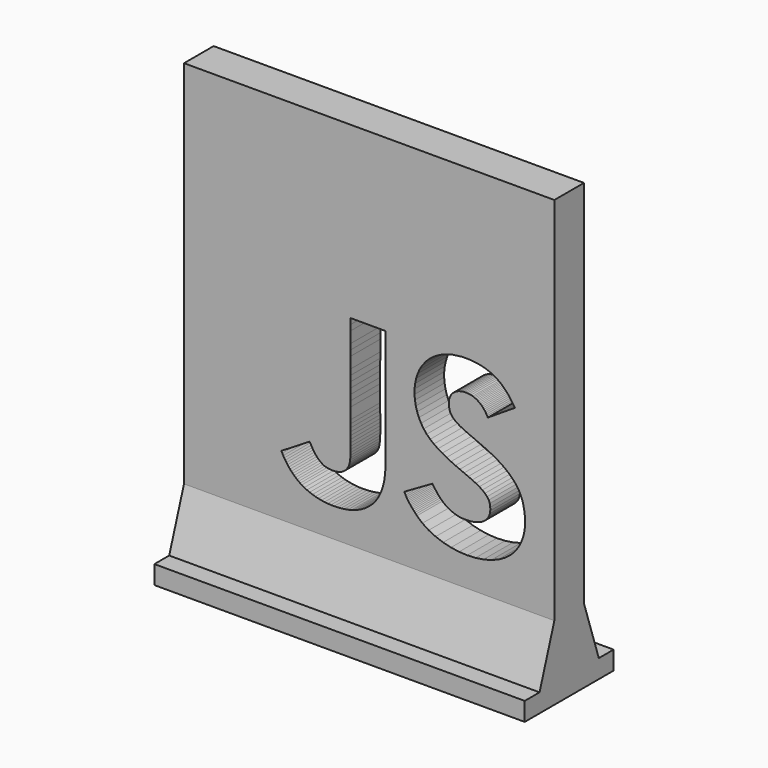
from build123d import *

# Parameters (mm, degrees)
F1_DEPTH = 5
F3_DEPTH = 49.999602


with BuildPart() as f1:
    # F0 (on Front) → F1 (new body)
    with BuildSketch(Plane.XZ):
        Polygon((-21.874825, 25), (-24.9998, 25), (-24.9998, 21.875), (-24.9998, 18.75), (-24.9998, 15.625), (-24.9998, 12.499999), (-24.9998, 9.374999), (-24.9998, 6.25), (-24.9998, 3.125), (-24.9998, 0), (-24.9998, -3.125001), (-24.9998, -6.250001), (-24.9998, -9.375), (-24.9998, -12.5), (-24.9998, -15.625), (-24.999801, -18.75), (-24.999801, -21.875001), (-24.999801, -25.000001), (-21.874826, -25.000001), (-18.749851, -25.000001), (-15.624875, -25.000001), (-12.4999, -25.000001), (-9.374925, -25.000001), (-6.24995, -25.000001), (-3.124975, -25.000001), (0, -25.000001), (3.124975, -25.000001), (6.24995, -25.000001), (9.374925, -25.000001), (12.499901, -25.000001), (15.624876, -25.000001), (18.749851, -25.000001), (21.874826, -25.000001), (24.999801, -25.000001), (24.999801, -21.875001), (24.999801, -18.75), (24.999801, -15.625), (24.999801, -12.5), (24.999801, -9.375), (24.999801, -6.250001), (24.999801, -3.125001), (24.999801, 0), (24.999801, 3.125), (24.999801, 6.25), (24.999801, 9.374999), (24.999801, 12.499999), (24.999801, 15.625), (24.999801, 18.75), (24.999801, 21.875), (24.999801, 25), (21.874826, 25), (18.749851, 25), (15.624876, 25), (12.499901, 25), (9.374926, 25), (6.249951, 25), (3.124976, 25), (1e-06, 25), (-3.124974, 25), (-6.24995, 25), (-9.374924, 25), (-12.499899, 25), (-15.624875, 25), (-18.74985, 25), align=None)
        Polygon((1.889283, 2.020009), (2.181575, 2.020009), (2.181834, 1.213692), (2.182541, 0.40769), (2.183592, -0.398019), (2.184883, -1.203458), (2.186309, -2.008649), (2.187767, -2.813614), (2.189153, -3.618375), (2.190362, -4.422955), (2.19129, -5.227376), (2.191833, -6.03166), (2.191887, -6.83583), (2.191348, -7.639907), (2.190112, -8.443914), (2.188073, -9.247873), (2.18513, -10.051806), (2.181176, -10.855735), (2.185169, -11.345514), (2.192077, -11.829149), (2.199685, -12.306406), (2.205778, -12.777049), (2.20814, -13.240841), (2.204556, -13.697548), (2.192812, -14.146933), (2.170692, -14.588761), (2.135981, -15.022796), (2.086465, -15.448801), (2.019928, -15.866542), (1.934154, -16.275783), (1.82693, -16.676287), (1.69604, -17.067819), (1.539268, -17.450144), (1.3544, -17.823025), (1.208559, -18.097766), (1.047665, -18.360476), (0.872371, -18.611161), (0.683331, -18.84983), (0.4812, -19.076487), (0.266631, -19.291142), (0.040279, -19.4938), (-0.197203, -19.684469), (-0.445159, -19.863156), (-0.702937, -20.029867), (-0.969882, -20.184611), (-1.245339, -20.327393), (-1.528655, -20.458221), (-1.819176, -20.577101), (-2.116247, -20.684042), (-2.419215, -20.77905), (-2.88751, -20.876347), (-3.352493, -20.952715), (-3.813428, -21.00839), (-4.269577, -21.043609), (-4.720203, -21.058608), (-5.164568, -21.053623), (-5.601937, -21.02889), (-6.03157, -20.984647), (-6.452731, -20.921129), (-6.864684, -20.838572), (-7.26669, -20.737214), (-7.658013, -20.61729), (-8.037915, -20.479037), (-8.40566, -20.322692), (-8.760509, -20.14849), (-9.101726, -19.956668), (-9.322345, -19.814901), (-9.536778, -19.664212), (-9.744968, -19.504929), (-9.946863, -19.337378), (-10.142406, -19.161886), (-10.331542, -18.978781), (-10.514217, -18.78839), (-10.690375, -18.591039), (-10.859962, -18.387055), (-11.022922, -18.176767), (-11.1792, -17.960499), (-11.328743, -17.738582), (-11.471493, -17.511339), (-11.607398, -17.2791), (-11.7364, -17.04219), (-11.858446, -16.800938), (-11.620798, -16.655403), (-11.38315, -16.509868), (-11.145502, -16.364334), (-10.907853, -16.218799), (-10.670205, -16.073265), (-10.432557, -15.92773), (-10.194908, -15.782195), (-9.95726, -15.636661), (-9.719612, -15.491126), (-9.481963, -15.345591), (-9.244315, -15.200056), (-9.006666, -15.054522), (-8.769018, -14.908987), (-8.53137, -14.763453), (-8.293722, -14.617918), (-8.056073, -14.472383), (-8.049014, -14.476928), (-8.040449, -14.48521), (-8.030427, -14.497062), (-8.018997, -14.512317), (-8.006208, -14.530809), (-7.992106, -14.552371), (-7.976743, -14.576836), (-7.960166, -14.604038), (-7.942423, -14.633809), (-7.923563, -14.665983), (-7.903635, -14.700393), (-7.882686, -14.736873), (-7.860767, -14.775255), (-7.837925, -14.815373), (-7.814209, -14.85706), (-7.789668, -14.90015), (-7.699489, -15.049706), (-7.610176, -15.19379), (-7.521037, -15.332502), (-7.431385, -15.465938), (-7.340531, -15.594198), (-7.247784, -15.717378), (-7.152455, -15.835579), (-7.053857, -15.948898), (-6.951298, -16.057434), (-6.844091, -16.161284), (-6.731545, -16.260547), (-6.612972, -16.355321), (-6.487682, -16.445706), (-6.354986, -16.531798), (-6.214196, -16.613696), (-6.064621, -16.691499), (-5.902313, -16.741641), (-5.720398, -16.787258), (-5.521882, -16.826156), (-5.309776, -16.856141), (-5.087087, -16.87502), (-4.856823, -16.880597), (-4.621993, -16.87068), (-4.385606, -16.843073), (-4.15067, -16.795584), (-3.920193, -16.726017), (-3.697185, -16.632179), (-3.484652, -16.511876), (-3.285604, -16.362914), (-3.10305, -16.183099), (-2.939997, -15.970236), (-2.799453, -15.722133), (-2.727336, -15.567847), (-2.667136, -15.377328), (-2.617849, -15.152655), (-2.578474, -14.895911), (-2.548008, -14.609176), (-2.52545, -14.294531), (-2.509797, -13.954058), (-2.500046, -13.589838), (-2.495196, -13.203951), (-2.494245, -12.798479), (-2.496189, -12.375502), (-2.500027, -11.937103), (-2.504757, -11.485361), (-2.509377, -11.022359), (-2.512883, -10.550176), (-2.514275, -10.070895), (-2.513077, -9.315214), (-2.511879, -8.559533), (-2.51068, -7.803851), (-2.509482, -7.048169), (-2.508284, -6.292488), (-2.507086, -5.536806), (-2.505887, -4.781125), (-2.504689, -4.025444), (-2.503491, -3.269762), (-2.502293, -2.51408), (-2.501094, -1.758399), (-2.499896, -1.002718), (-2.498698, -0.247036), (-2.4975, 0.508646), (-2.496302, 1.264327), (-2.495103, 2.020009), (-2.202811, 2.020009), (-1.910519, 2.020009), (-1.618226, 2.020009), (-1.325934, 2.020009), (-1.033641, 2.020009), (-0.741349, 2.020009), (-0.449057, 2.020009), (-0.156764, 2.020009), (0.135528, 2.020009), (0.427821, 2.020009), (0.720113, 2.020009), (1.012406, 2.020009), (1.304698, 2.020009), (1.596991, 2.020009), align=None, mode=Mode.SUBTRACT)
        Polygon((20.825609, -12.65138), (20.907859, -13.074851), (20.964867, -13.434752), (21.00507, -13.777911), (21.030168, -14.103753), (21.041863, -14.411703), (21.041857, -14.701186), (21.031851, -14.971626), (21.013546, -15.222449), (20.988643, -15.45308), (20.958845, -15.662943), (20.925852, -15.851463), (20.891366, -16.018065), (20.857088, -16.162174), (20.82472, -16.283215), (20.795963, -16.380612), (20.772518, -16.453791), (20.756087, -16.502177), (20.367272, -17.482109), (19.822998, -18.338182), (19.142134, -19.07263), (18.343545, -19.687688), (17.446098, -20.185591), (16.468659, -20.568575), (15.430094, -20.838874), (14.349269, -20.998723), (13.245051, -21.050357), (12.136305, -20.996011), (11.041898, -20.83792), (9.980697, -20.57832), (8.971566, -20.219444), (8.033374, -19.763529), (7.184985, -19.212808), (6.445266, -18.569518), (6.305061, -18.411988), (6.171165, -18.262733), (6.043193, -18.120346), (5.920761, -17.983423), (5.803485, -17.850557), (5.69098, -17.720345), (5.582862, -17.59138), (5.478746, -17.462257), (5.378248, -17.331571), (5.280984, -17.197915), (5.18657, -17.059886), (5.09462, -16.916078), (5.004751, -16.765085), (4.916578, -16.605502), (4.829717, -16.435923), (4.743784, -16.254944), (5.083116, -16.059791), (5.382891, -15.887378), (5.648671, -15.734495), (5.886018, -15.597934), (6.100496, -15.474486), (6.297668, -15.360942), (6.483096, -15.254092), (6.662344, -15.150727), (6.840974, -15.047639), (7.024549, -14.941617), (7.218632, -14.829454), (7.428785, -14.707939), (7.660573, -14.573864), (7.919556, -14.42402), (8.211299, -14.255197), (8.541365, -14.064186), (8.731415, -14.349178), (8.920889, -14.617962), (9.110999, -14.870825), (9.302956, -15.108054), (9.497971, -15.329935), (9.697257, -15.536755), (9.902025, -15.728802), (10.113488, -15.90636), (10.332855, -16.069717), (10.56134, -16.219161), (10.800153, -16.354977), (11.050507, -16.477452), (11.313614, -16.586873), (11.590684, -16.683526), (11.882929, -16.767699), (12.191563, -16.839677), (12.621495, -16.879574), (13.047593, -16.893553), (13.465693, -16.880766), (13.871633, -16.840365), (14.261248, -16.771501), (14.630377, -16.673326), (14.974858, -16.544992), (15.290526, -16.385651), (15.57322, -16.194453), (15.818776, -15.970551), (16.023033, -15.713096), (16.181826, -15.421241), (16.290993, -15.094135), (16.346372, -14.730932), (16.3438, -14.330783), (16.279114, -13.892839), (16.137891, -13.536332), (15.918731, -13.210527), (15.628905, -12.910807), (15.275693, -12.632555), (14.866366, -12.371152), (14.408202, -12.121982), (13.908476, -11.880428), (13.374463, -11.641871), (12.813438, -11.401695), (12.232677, -11.155282), (11.639455, -10.898015), (11.041047, -10.625276), (10.444729, -10.332448), (9.857777, -10.014913), (9.287465, -9.668056), (8.741069, -9.287256), (8.227089, -8.893323), (7.766018, -8.441565), (7.359081, -7.938988), (7.007504, -7.392592), (6.712513, -6.809382), (6.475333, -6.196359), (6.29719, -5.560526), (6.17931, -4.908887), (6.12292, -4.248443), (6.129243, -3.586198), (6.199507, -2.929154), (6.334937, -2.284314), (6.536758, -1.658681), (6.806196, -1.059258), (7.144478, -0.493046), (7.552828, 0.03295), (7.707135, 0.216209), (7.873763, 0.393359), (8.051996, 0.564206), (8.241116, 0.728558), (8.440404, 0.886221), (8.649142, 1.037003), (8.866614, 1.18071), (9.0921, 1.317149), (9.324884, 1.446128), (9.564246, 1.567452), (9.80947, 1.68093), (10.059837, 1.786368), (10.314629, 1.883572), (10.573129, 1.97235), (10.834619, 2.052509), (11.09838, 2.123856), (11.190444, 2.135763), (11.282508, 2.14767), (11.374572, 2.159578), (11.466636, 2.171486), (11.5587, 2.183393), (11.650764, 2.1953), (11.742827, 2.207208), (11.834891, 2.219115), (11.926955, 2.231023), (12.019019, 2.24293), (12.111083, 2.254837), (12.203147, 2.266745), (12.29521, 2.278652), (12.387274, 2.290559), (12.479338, 2.302467), (12.571402, 2.314375), (13.089343, 2.315691), (13.583312, 2.29832), (14.054172, 2.26241), (14.502786, 2.208107), (14.930017, 2.135559), (15.336727, 2.044914), (15.723781, 1.936319), (16.09204, 1.809921), (16.442368, 1.665869), (16.775628, 1.504308), (17.092682, 1.325387), (17.394394, 1.129254), (17.681626, 0.916055), (17.955243, 0.685938), (18.216106, 0.43905), (18.465078, 0.17554), (18.532075, 0.106499), (18.597984, 0.036152), (18.663278, -0.036135), (18.728432, -0.110992), (18.793922, -0.189054), (18.86022, -0.270952), (18.927802, -0.357318), (18.997142, -0.448786), (19.068715, -0.545987), (19.142994, -0.649555), (19.220456, -0.760121), (19.301573, -0.878319), (19.386821, -1.00478), (19.476674, -1.140137), (19.571606, -1.285022), (19.672093, -1.440068), (19.406421, -1.609322), (19.170782, -1.759336), (18.959795, -1.893591), (18.76808, -2.015566), (18.590258, -2.128742), (18.420947, -2.236598), (18.254768, -2.342615), (18.086339, -2.450272), (17.910281, -2.563051), (17.721214, -2.684429), (17.513756, -2.817888), (17.282529, -2.966908), (17.02215, -3.134968), (16.727241, -3.325549), (16.392421, -3.54213), (16.012309, -3.788192), (15.922318, -3.606282), (15.825594, -3.433031), (15.722519, -3.268413), (15.613474, -3.112399), (15.49884, -2.964962), (15.378999, -2.826075), (15.254333, -2.69571), (15.125222, -2.57384), (14.992048, -2.460437), (14.855193, -2.355473), (14.715038, -2.258922), (14.571965, -2.170755), (14.426355, -2.090946), (14.278589, -2.019466), (14.12905, -1.956288), (13.978118, -1.901385), (13.73943, -1.83942), (13.495366, -1.79623), (13.248246, -1.771988), (13.000389, -1.766871), (12.754114, -1.781052), (12.51174, -1.814705), (12.275587, -1.868005), (12.047973, -1.941126), (11.831219, -2.034242), (11.627642, -2.147528), (11.439563, -2.281159), (11.269301, -2.435307), (11.119174, -2.610149), (10.991503, -2.805857), (10.888605, -3.022607), (10.812801, -3.260574), (10.793007, -3.336932), (10.776478, -3.413099), (10.763242, -3.489548), (10.753326, -3.566752), (10.746757, -3.645185), (10.743561, -3.72532), (10.743765, -3.80763), (10.747397, -3.892588), (10.754483, -3.980669), (10.765051, -4.072345), (10.779126, -4.168089), (10.796736, -4.268376), (10.817909, -4.373677), (10.84267, -4.484468), (10.871047, -4.60122), (10.903067, -4.724408), (11.012103, -4.934404), (11.1472, -5.130275), (11.306347, -5.313272), (11.487533, -5.484651), (11.688744, -5.645665), (11.907969, -5.797567), (12.143195, -5.941612), (12.392412, -6.079053), (12.653606, -6.211144), (12.924765, -6.339139), (13.203879, -6.464292), (13.488933, -6.587857), (13.777917, -6.711086), (14.068818, -6.835235), (14.359624, -6.961557), (14.648324, -7.091305), (15.440664, -7.427859), (16.167235, -7.76779), (16.83067, -8.111445), (17.433601, -8.459169), (17.978662, -8.811306), (18.468485, -9.168203), (18.905703, -9.530203), (19.292949, -9.897653), (19.632856, -10.270897), (19.928056, -10.650282), (20.181183, -11.036151), (20.394868, -11.42885), (20.571746, -11.828724), (20.714448, -12.236119), align=None, mode=Mode.SUBTRACT)
    extrude(amount=F1_DEPTH)

    # F2 (on face) → F3 (join, through all)
    with BuildSketch(Plane.YZ.offset(24.999801)):
        Polygon((2.5, -32.5), (0, -25.000001), (-2.5, -25.000001), (-2.5, -35.000001), (5, -35.000001), (5, -32.5), align=None)
        Polygon((-2.5, -35.000001), (-2.5, -25.000001), (-5, -25.000001), (-7.5, -32.5), (-10, -32.5), (-10, -35.000001), align=None)
    extrude(amount=-F3_DEPTH)


solid = f1.part
